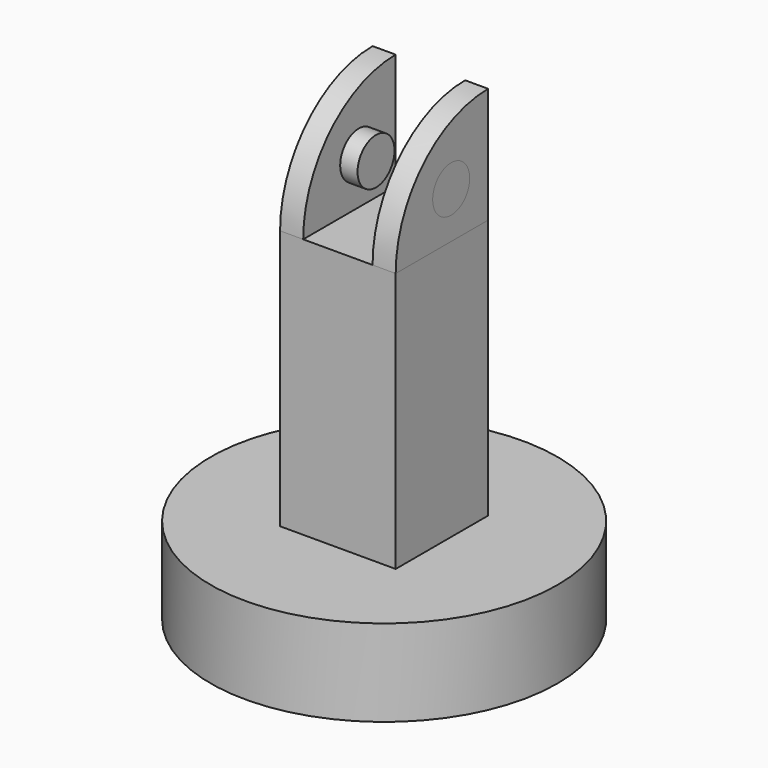
from build123d import *

# Parameters (mm, degrees)
F0_W     = 38.1
F0_H     = 19.05
F2_W     = 25.4
F2_H     = 25.4
F3_DEPTH = 76.2
F5_R     = 5.08
F6_DEPTH = 5.08
F4_R     = 5.08
F7_DEPTH = 5.08
F8_DEPTH = 8.89
F9_DEPTH = 8.89


with BuildPart() as f1:
    # F0 (on Front) → F1 (revolve)
    with BuildSketch(Plane.XZ):
        with Locations((19.05, 9.525)):
            Rectangle(F0_W, F0_H)
    revolve(axis=Axis((0, 0, 9.525), (0, 0, 1)))

    # F2 (on Top) → F3 (join)
    with BuildSketch(Plane.XY):
        Rectangle(F2_W, F2_H)
    extrude(amount=F3_DEPTH)


with BuildPart() as f6:
    # F5 (on face) → F6 (new body)
    with BuildSketch(Plane(origin=(-12.7, 0, 0), x_dir=(0, -1, 0), z_dir=(-1, 0, 0))):
        with BuildLine():
            Line((-12.7, 76.2), (12.7, 76.2))
            ThreePointArc((12.7, 76.2), (5.260512, 94.160512), (-12.7, 101.6))
            Line((-12.7, 101.6), (-12.7, 76.2))
        make_face()
        with Locations((-2.54, 86.36)):
            Circle(F5_R, mode=Mode.SUBTRACT)
    extrude(amount=-F6_DEPTH)


with BuildPart() as f7:
    # F4 (on face) → F7 (new body)
    with BuildSketch(Plane.YZ.offset(12.7)):
        with BuildLine():
            Line((-12.7, 76.2), (12.7, 76.2))
            Line((12.7, 76.2), (12.7, 101.6))
            ThreePointArc((12.7, 101.6), (-5.260512, 94.160512), (-12.7, 76.2))
        make_face()
        with Locations((2.54, 86.36)):
            Circle(F4_R, mode=Mode.SUBTRACT)
    extrude(amount=-F7_DEPTH)


with BuildPart() as f8:
    # F4 (on face) → F8 (new body)
    with BuildSketch(Plane.YZ.offset(12.7)):
        with Locations((2.54, 86.36)):
            Circle(F4_R)
    extrude(amount=-F8_DEPTH)


with BuildPart() as f9:
    # F5 (on face) → F9 (new body)
    with BuildSketch(Plane(origin=(-12.7, 0, 0), x_dir=(0, -1, 0), z_dir=(-1, 0, 0))):
        with Locations((-2.54, 86.36)):
            Circle(F5_R)
    extrude(amount=-F9_DEPTH)


solid = Compound([f1.part, f6.part, f7.part, f8.part, f9.part])
